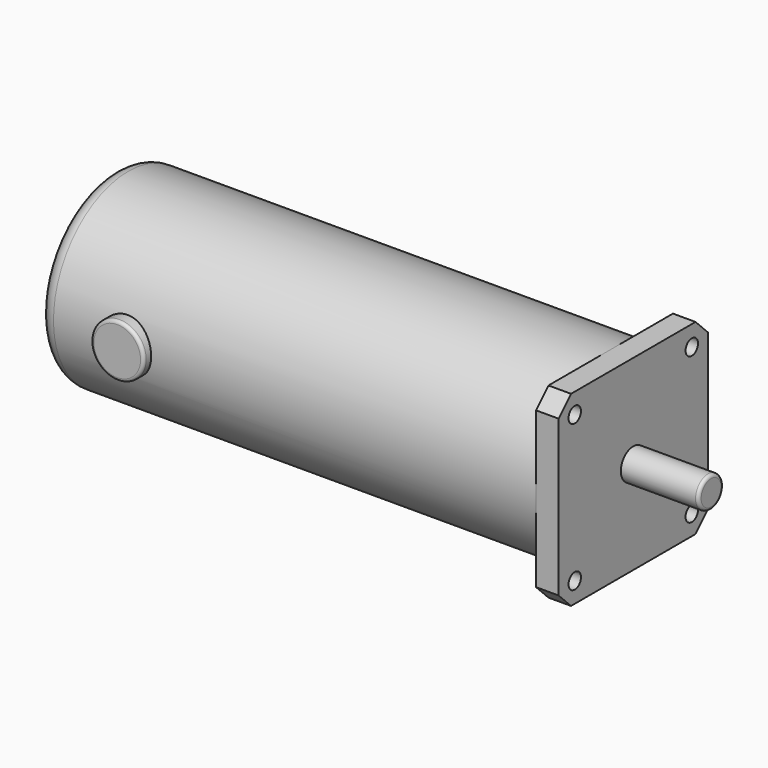
from build123d import *

# Parameters (mm, degrees)
F2_W      = 60
F2_H      = 60
F3_DEPTH  = 7.25
F5_D      = 5
F6_SIZE   = 5
F7_R      = 5
F8_R      = 1
F10_R     = 8.5
F11_DEPTH = 33
F12_R     = 1


with BuildPart() as f1:
    # F0 (on Front) → F1 (revolve)
    with BuildSketch(Plane.XZ):
        Polygon((-35.0844461756, 13.6041676658), (157.1655538244, 13.6041676658), (157.1655538244, 18.6041676658), (132.1655538244, 18.6041676658), (132.1655538244, 43.6041676658), (-35.0844461756, 43.6041676658), align=None)
    revolve(axis=Axis((57.2006537472, 0, 13.6041676658), (1, 0, 0)))

    # F2 (on face) → F3 (join)
    with BuildSketch(Plane.YZ.offset(132.1655538244)):
        with Locations((0, 13.6041676658)):
            Rectangle(F2_W, F2_H)
    extrude(amount=-F3_DEPTH)

    # F5 (through all)
    with Locations(Plane.YZ.offset(132.1655538244)):
        with Locations((-23.5, 37.1041676658), (23.5, 37.1041676658), (-23.5, -9.8958323342), (23.5, -9.8958323342)):
            Hole(F5_D / 2)

    # F6
    f6_edges = [f1.edges().sort_by_distance(p)[0] for p in [
        (128.540554, 30, 43.604168),
        (128.540554, 30, -16.395832),
        (128.540554, -30, 43.604168),
        (128.540554, -30, -16.395832),
    ]]
    chamfer(f6_edges, length=F6_SIZE)

    # F7
    f7_edges = [f1.edges().sort_by_distance(p)[0] for p in [
        (-35.084446, 0, -16.395832),
    ]]
    fillet(f7_edges, radius=F7_R)

    # F8
    f8_edges = [f1.edges().sort_by_distance(p)[0] for p in [
        (157.165554, 0, 8.604168),
    ]]
    fillet(f8_edges, radius=F8_R)

    # F10 (on offset) → F11 (join, symmetric)
    with BuildSketch(Plane(origin=(0, 0, 0), x_dir=(-1, 0, 0), z_dir=(0, 1, 0))):
        with Locations((7.2094461756, 13.6041676658)):
            Circle(F10_R)
    extrude(amount=F11_DEPTH, both=True)

    # F12
    f12_edges = [f1.edges().sort_by_distance(p)[0] for p in [
        (1.290554, -33, 13.604168),
        (1.290554, 33, 13.604168),
    ]]
    fillet(f12_edges, radius=F12_R)


solid = f1.part
